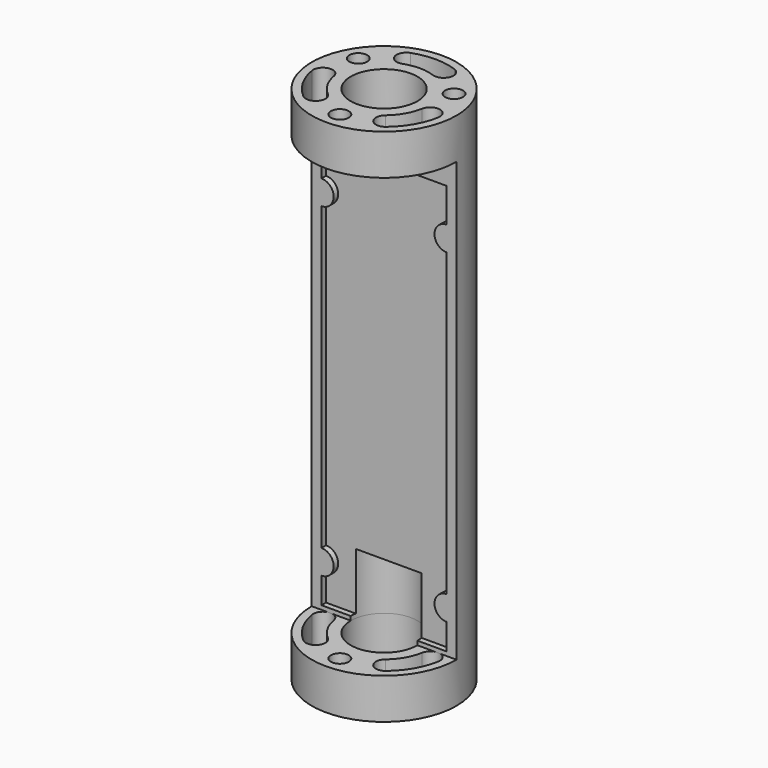
from build123d import *

# Parameters (mm, degrees)
SKETCH018_R     = 8.9
SKETCH018_R_2   = 1.1
PAD010_DEPTH    = 63.9
SKETCH021_R     = 4.0999836604
POCKET011_DEPTH = 5
SKETCH022_R     = 4.100021
POCKET012_DEPTH = 5
SKETCH023_W     = 17.8
SKETCH023_H     = 53.9
POCKET013_DEPTH = 8.901
POCKET014_DEPTH = 53.9
POCKET015_DEPTH = 7.5
POCKET016_DEPTH = 0.7


with BuildPart() as part:
    # Sketch018 (on Face1 of Binder002) → Pad010 (new body)
    with BuildSketch(Plane(origin=(1.7366e-05, 0, 99.49997), x_dir=(1, 0, -1.745e-07), z_dir=(1.745e-07, 0, 1))):
        Circle(SKETCH018_R)
        with Locations((-5.8889883308, 3.400015722)):
            Circle(SKETCH018_R_2, mode=Mode.SUBTRACT)
        with Locations((5.8889571607, 3.400015722)):
            Circle(SKETCH018_R_2, mode=Mode.SUBTRACT)
        with Locations((-1.5585e-05, -6.799984278)):
            Circle(SKETCH018_R_2, mode=Mode.SUBTRACT)
    extrude(amount=-PAD010_DEPTH)

    # Sketch021 → Pocket011 (cut)
    with BuildSketch(Plane(origin=(6.2134e-06, 0, 35.59997), x_dir=(1, 0, -1.745e-07), z_dir=(-1.745e-07, 0, -1))):
        Circle(SKETCH021_R)
        with BuildLine():
            ThreePointArc((-1.8811152381, -5.1683251364), (-3.4191703541, -5.8855321825), (-2.7019635821, -7.4235874263))
            ThreePointArc((-2.7019635821, -7.4235874263), (-4.4498e-06, -7.9000157524), (2.7019546824, -7.4235874263))
            ThreePointArc((2.7019546824, -7.4235874263), (3.4191616554, -5.8855321093), (1.8811063384, -5.1683251364))
            ThreePointArc((-1.8811152381, -5.1683251364), (-4.4498e-06, -5.500015722), (1.8811063384, -5.1683251364))
        make_face()
        with BuildLine():
            ThreePointArc((5.4164381917, 0.9550492551), (4.763135271, 2.749984278), (3.5353274034, 4.2132287151))
            ThreePointArc((5.0780176667, 6.0517353786), (3.3874194198, 5.9038269968), (3.5353274034, 4.2132287151))
            ThreePointArc((7.7799767989, 1.3718048815), (6.84159624, 3.949984278), (5.0780176667, 6.0517353786))
            ThreePointArc((5.4164381917, 0.9550492551), (6.8065841495, -0.018335662), (7.7799767989, 1.3718048815))
        make_face()
        with BuildLine():
            ThreePointArc((-3.5353363031, 4.2132287151), (-3.387428103, 5.9038271785), (-5.0780265664, 6.0517353786))
            ThreePointArc((-5.0780265664, 6.0517353786), (-6.8416051259, 3.94998427), (-7.7799856986, 1.3718048815))
            ThreePointArc((-7.7799856986, 1.3718048815), (-6.8065942082, -0.0183422353), (-5.4164470914, 0.9550492551))
            ThreePointArc((-3.5353363031, 4.2132287151), (-4.7631442258, 2.7499843098), (-5.4164470914, 0.9550492551))
        make_face()
    extrude(amount=-POCKET011_DEPTH, mode=Mode.SUBTRACT)

    # Sketch022 (on Face2 of Pocket011) → Pocket012 (cut)
    with BuildSketch(Plane(origin=(1.7366e-05, 0, 99.49997), x_dir=(1, 0, -1.745e-07), z_dir=(1.745e-07, 0, 1))):
        Circle(SKETCH022_R)
        with BuildLine():
            ThreePointArc((-5.0780377016, -6.0517353786), (-3.3874392382, -5.9038271785), (-3.5353474383, -4.2132287151))
            ThreePointArc((-5.4164582266, -0.9550492551), (-4.7631552696, -2.749984257), (-3.5353474383, -4.2132287151))
            ThreePointArc((-5.4164582266, -0.9550492551), (-6.8066053434, 0.0183422353), (-7.7799968338, -1.3718048815))
            ThreePointArc((-7.7799968338, -1.3718048815), (-6.8416163045, -3.949984295), (-5.0780377016, -6.0517353786))
        make_face()
        with BuildLine():
            ThreePointArc((3.5353162682, -4.2132287151), (4.7631241358, -2.749984278), (5.4164270565, -0.9550492551))
            ThreePointArc((7.7799656637, -1.3718048815), (6.8065747876, 0.018345719), (5.4164270565, -0.9550492551))
            ThreePointArc((5.0780065315, -6.0517353786), (6.8415851048, -3.949984278), (7.7799656637, -1.3718048815))
            ThreePointArc((3.5353162682, -4.2132287151), (3.3874080412, -5.9038272011), (5.0780065315, -6.0517353786))
        make_face()
        with BuildLine():
            ThreePointArc((1.8810952032, 5.1683251364), (3.4191505202, 5.8855321093), (2.7019435472, 7.4235874263))
            ThreePointArc((2.7019435472, 7.4235874263), (-1.5585e-05, 7.9000157491), (-2.7019747173, 7.4235874263))
            ThreePointArc((-2.7019747173, 7.4235874263), (-3.4191816903, 5.8855321093), (-1.8811263733, 5.1683251364))
            ThreePointArc((1.8810952032, 5.1683251364), (-1.5585e-05, 5.5000159544), (-1.8811263733, 5.1683251364))
        make_face()
    extrude(amount=-POCKET012_DEPTH, mode=Mode.SUBTRACT)

    # Sketch023 (on DatumPlane) → Pocket013 (cut, through all)
    with BuildSketch(Plane(origin=(1.7366e-05, 0, 99.49997), x_dir=(1, 0, -1.745e-07), z_dir=(0, -1, 0))):
        with Locations((0, -31.95)):
            Rectangle(SKETCH023_W, SKETCH023_H)
    extrude(amount=POCKET013_DEPTH, mode=Mode.SUBTRACT)

    # Sketch024 (on Face2 of Pocket013) → Pocket014 (cut)
    with BuildSketch(Plane(origin=(1.64934e-05, 0, 94.49997), x_dir=(1, 0, -1.745e-07), z_dir=(1.745e-07, 0, 1))):
        with BuildLine():
            ThreePointArc((-3.4915505453, 6.2959562813), (-2.979842269, 5.3129738282), (-1.8811263733, 5.1683251364))
            ThreePointArc((1.8810952032, 5.1683251364), (-1.5585e-05, 5.5000160464), (-1.8811263733, 5.1683251364))
            ThreePointArc((1.8810952032, 5.1683251364), (2.9798110989, 5.3129738282), (3.4915193752, 6.2959562813))
            Line((3.4915193752, 6.2959562813), (6.2905432598, 6.2959562813))
            ThreePointArc((6.2905432598, 6.2959562813), (0, 8.9), (-6.2905432598, 6.2959562813))
            Line((-3.4915505453, 6.2959562813), (-6.2905432598, 6.2959562813))
        make_face()
    extrude(amount=-POCKET014_DEPTH, mode=Mode.SUBTRACT)

    # Sketch026 (on Face22 of Pocket014) → Pocket015 (cut)
    with BuildSketch(Plane(origin=(7.086e-06, 0, 40.59997), x_dir=(1, 0, -1.745e-07), z_dir=(-1.745e-07, 0, -1))):
        with BuildLine():
            ThreePointArc((-4.0999836604, 0), (0, -4.0999836604), (4.0999836604, 0))
            Line((-4.0999836604, 0), (4.0999836604, 0))
        make_face()
    extrude(amount=-POCKET015_DEPTH, mode=Mode.SUBTRACT)

    # Sketch025 (on Face3 of Pocket014) → Pocket016 (cut)
    with BuildSketch(Plane.XZ):
        with BuildLine():
            Line((-7.7, 41.0999707156), (7.7, 41.0999707156))
            Line((7.7, 44.2999707156), (7.7, 41.0999707156))
            ThreePointArc((7.7, 47.2999707156), (6.2, 45.7999707156), (7.7, 44.2999707156))
            Line((7.7, 84.2999707156), (7.7, 47.2999707156))
            ThreePointArc((7.7, 87.2999707156), (6.2, 85.7999707156), (7.7, 84.2999707156))
            Line((7.7, 87.2999707156), (7.7, 91.4999707156))
            Line((7.7, 91.4999707156), (-7.7, 91.4999707156))
            Line((-7.7, 87.2999707156), (-7.7, 91.4999707156))
            ThreePointArc((-7.7, 84.2999707156), (-6.2, 85.7999707156), (-7.7, 87.2999707156))
            Line((-7.7, 84.2999707156), (-7.7, 47.2999707156))
            ThreePointArc((-7.7, 44.2999707156), (-6.2, 45.7999707156), (-7.7, 47.2999707156))
            Line((-7.7, 41.0999707156), (-7.7, 44.2999707156))
        make_face()
    extrude(amount=-POCKET016_DEPTH, mode=Mode.SUBTRACT)


with BuildPart() as part_1:
    # Body008 placement: moved
    add(part.part.moved(Location((0, -5.722e-06, 36.00006))))


solid = part_1.part
